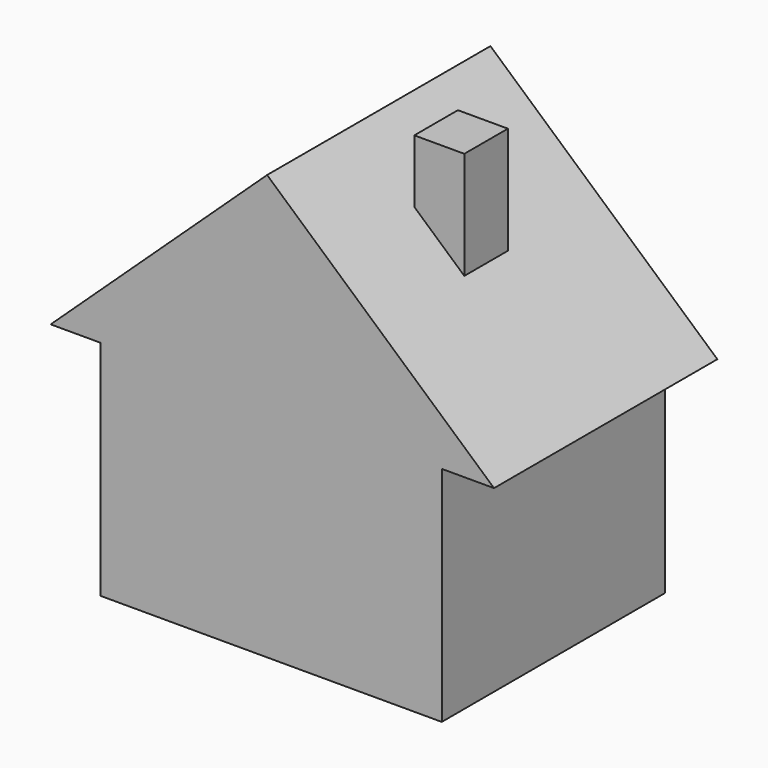
from build123d import *

# Parameters (mm, degrees)
F0_W     = 86.748682
F0_H     = 56.661889
F1_DEPTH = 70.99464
F2_W     = 12.718076
F2_H     = 13.857008
F3_DEPTH = 53.85619


with BuildPart() as f1:
    # F0 (on Front) → F1 (new body)
    with BuildSketch(Plane.XZ):
        with Locations((1.04402, -28.330944)):
            Rectangle(F0_W, F0_H)
        Polygon((57.705909, 0), (0, 51.346868), (-55.048399, 0), (-42.330321, 0), (44.418361, 0), align=None)
    extrude(amount=-F1_DEPTH)

    # F2 (on Top) → F3 (join)
    with BuildSketch(Plane.XY):
        with Locations((21.544804, 34.737437)):
            Rectangle(F2_W, F2_H)
    extrude(amount=F3_DEPTH)


solid = f1.part
